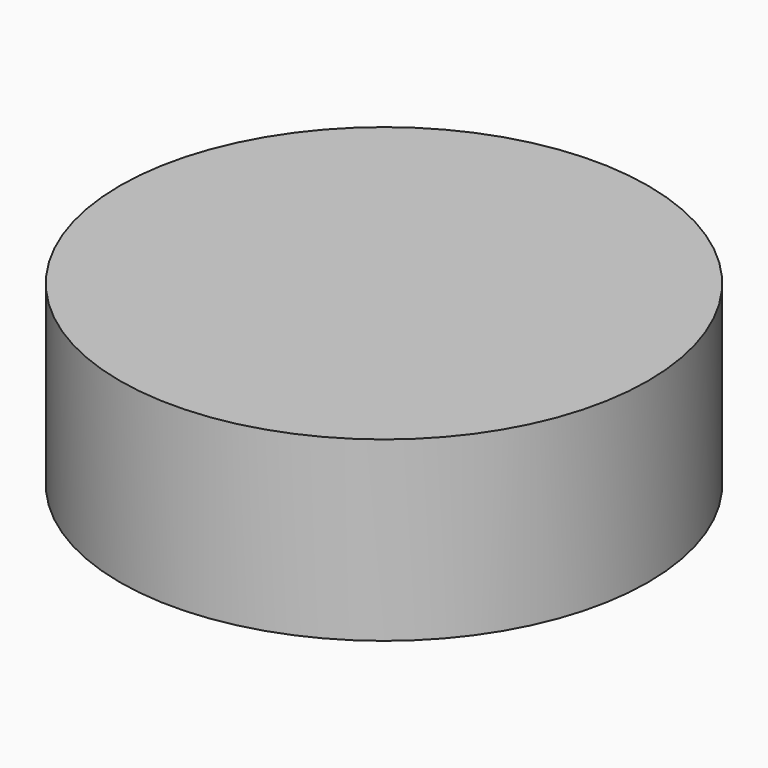
from build123d import *

# Parameters (mm, degrees)
CYLINDER_R     = 22.3393
CYLINDER_DEPTH = 15


with BuildPart() as part:
    # Cylinder → Cylinder (new body)
    with BuildSketch(Plane.XY.offset(-2.5)):
        Circle(CYLINDER_R)
    extrude(amount=CYLINDER_DEPTH)


solid = part.part
